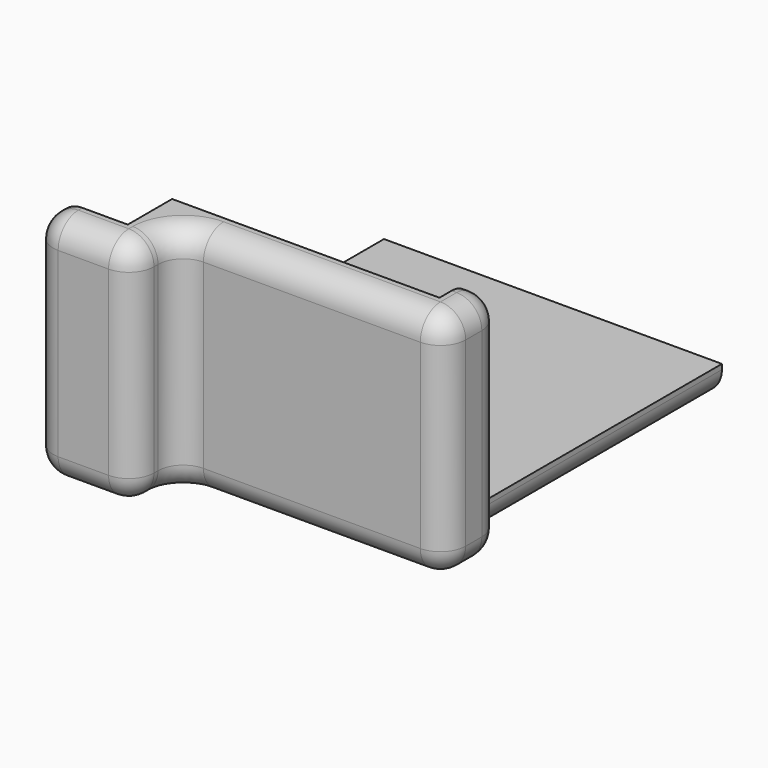
from build123d import *

# Parameters (mm, degrees)
F0_W     = 23.5
F0_H     = 3
F1_DEPTH = 3
F2_DEPTH = 20
F3_R     = 2.5


with BuildPart() as f1:
    # F0 (on Top) → F1 (new body)
    with BuildSketch(Plane.XY):
        Polygon((-14.5, 24.875), (-14.5, -15.625), (-7.5, -15.625), (-7.5, -10.125), (-4.5, -10.125), (19, -10.125), (19, -6.125), (19, 24.875), align=None)
        Polygon((-7.5, -15.625), (-14.5, -15.625), (-14.5, -18.625), (-7.5, -18.625), (-4.5, -18.625), (-4.5, -13.125), (-4.5, -10.125), (-7.5, -10.125), align=None)
        with Locations((7.25, -11.625)):
            Rectangle(F0_W, F0_H)
        Polygon((22, -6.125), (19, -6.125), (19, -10.125), (19, -13.125), (22, -13.125), (22, -10.125), align=None)
        Polygon((22, -6.125), (19, -6.125), (19, -10.125), (19, -13.125), (22, -13.125), (22, -10.125), align=None)
    extrude(amount=-F1_DEPTH)

    # F0 (on Top) → F2 (join)
    with BuildSketch(Plane.XY):
        Polygon((22, -6.125), (19, -6.125), (19, -10.125), (19, -13.125), (22, -13.125), (22, -10.125), align=None)
        with Locations((7.25, -11.625)):
            Rectangle(F0_W, F0_H)
        Polygon((-7.5, -15.625), (-14.5, -15.625), (-14.5, -18.625), (-7.5, -18.625), (-4.5, -18.625), (-4.5, -13.125), (-4.5, -10.125), (-7.5, -10.125), align=None)
        Polygon((22, -6.125), (19, -6.125), (19, -10.125), (19, -13.125), (22, -13.125), (22, -10.125), align=None)
    extrude(amount=F2_DEPTH)

    # F3
    f3_edges = [f1.edges().sort_by_distance(p)[0] for p in [
        (-14.5, 3.125, -3),
        (-14.5, -18.625, 8.5),
        (-9.5, -18.625, -3),
        (-4.5, -15.875, -3),
        (8.75, -13.125, -3),
        (-4.5, -13.125, 8.5),
        (-4.5, -18.625, 8.5),
        (22, -13.125, 8.5),
        (22, -9.625, -3),
        (8.75, -13.125, 20),
        (-4.5, -15.875, 20),
        (-9.5, -18.625, 20),
        (22, -9.625, 20),
        (22, -6.125, 8.5),
        (20.5, -6.125, -3),
        (19, 9.375, -3),
        (20.5, -6.125, 20),
        (-14.5, -17.125, 20),
    ]]
    fillet(f3_edges, radius=F3_R)


solid = f1.part
